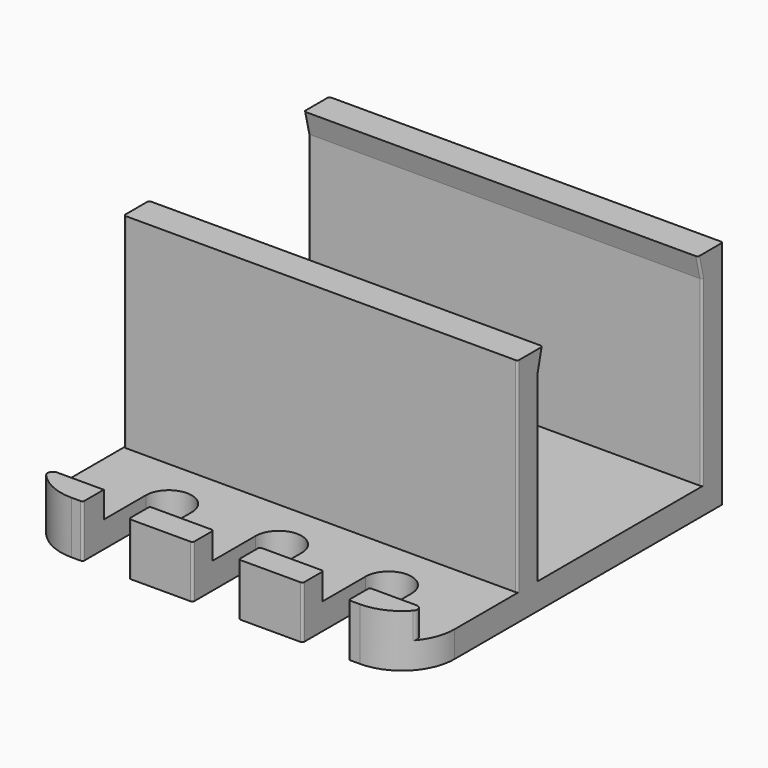
from build123d import *

# Parameters (mm, degrees)
F0_W     = 2.54
F0_H     = 2.54
F1_DEPTH = 19.05
F3_DEPTH = 12.7
F4_R     = 5.08
F5_R     = 0.508
F6_R     = 0.2


with BuildPart() as f1:
    # F0 (on Right) → F1 (new body, symmetric)
    with BuildSketch(Plane.YZ):
        Polygon((-12.7, 0), (0, 0), (2.54, 0), (24.8412, 0), (24.8412, 2.54), (24.8412, 22.3012), (22.3012, 22.3012), (21.7932, 22.3012), (22.3012, 20.1749913394), (22.3012, 2.54), (2.54, 2.54), (2.54, 20.1749913394), (2.54, 22.3012), (0, 22.3012), (0, 2.54), (-10.16, 2.54), (-12.7, 2.54), align=None)
        with Locations((-11.43, 3.81)):
            Rectangle(F0_W, F0_H)
        Polygon((3.048, 22.3012), (2.54, 22.3012), (2.54, 20.1749913394), align=None)
    extrude(amount=F1_DEPTH, both=True)

    # F2 (on face) → F3 (cut, symmetric)
    with BuildSketch(Plane.XY.offset(2.54)):
        with BuildLine():
            Line((2.2225, -12.7), (2.2225, -5.08))
            ThreePointArc((2.2225, -5.08), (0, -2.8575), (-2.2225, -5.08))
            Line((-2.2225, -5.08), (-2.2225, -12.7))
            Line((-2.2225, -12.7), (2.2225, -12.7))
        make_face()
        with BuildLine():
            Line((12.85875, -12.7), (12.85875, -5.08))
            ThreePointArc((12.85875, -5.08), (10.63625, -2.8575), (8.41375, -5.08))
            Line((8.41375, -5.08), (8.41375, -12.7))
            Line((8.41375, -12.7), (12.85875, -12.7))
        make_face()
        with BuildLine():
            Line((-8.41375, -12.7), (-8.41375, -5.08))
            ThreePointArc((-8.41375, -5.08), (-10.63625, -2.8575), (-12.85875, -5.08))
            Line((-12.85875, -5.08), (-12.85875, -12.7))
            Line((-12.85875, -12.7), (-8.41375, -12.7))
        make_face()
    extrude(amount=F3_DEPTH, both=True, mode=Mode.SUBTRACT)

    # F4
    f4_edges = [f1.edges().sort_by_distance(p)[0] for p in [
        (19.05, -12.7, 2.54),
        (-19.05, -12.7, 2.54),
    ]]
    fillet(f4_edges, radius=F4_R)

    # F5
    f5_edges = [f1.edges().sort_by_distance(p)[0] for p in [
        (-18.369409, -10.16, 3.81),
        (18.369409, -10.16, 3.81),
    ]]
    fillet(f5_edges, radius=F5_R)

    # F6
    f6_edges = [f1.edges().sort_by_distance(p)[0] for p in [
        (-12.85875, -12.7, 2.54),
        (-8.41375, -12.7, 2.54),
        (-2.2225, -12.7, 2.54),
        (2.2225, -12.7, 2.54),
        (8.41375, -12.7, 2.54),
        (12.85875, -12.7, 2.54),
        (12.85875, -10.16, 3.81),
        (8.41375, -10.16, 3.81),
        (2.2225, -10.16, 3.81),
        (-2.2225, -10.16, 3.81),
        (-8.41375, -10.16, 3.81),
        (19.05, 0, 12.4206),
        (19.05, 2.54, 11.357496),
        (19.05, 2.794, 21.238096),
        (19.05, 22.3012, 11.357496),
        (19.05, 24.8412, 11.1506),
        (19.05, 22.0472, 21.238096),
        (-19.05, 0, 12.4206),
        (-19.05, 2.54, 11.357496),
        (-19.05, 22.3012, 11.357496),
        (-19.05, 24.8412, 11.1506),
        (-19.05, 22.0472, 21.238096),
        (-19.05, 2.794, 21.238096),
    ]]
    fillet(f6_edges, radius=F6_R)


solid = f1.part
